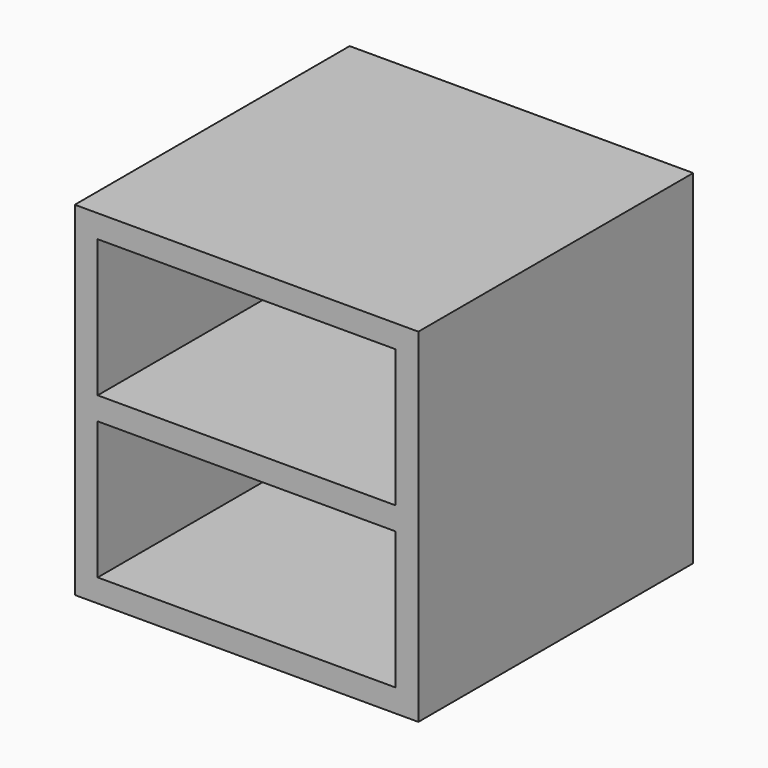
from build123d import *

# Parameters (mm, degrees)
F0_W     = 180
F0_H     = 180
F1_DEPTH = 90
F2_T     = -12
F3_W     = 156
F3_H     = 12
F4_DEPTH = 168


with BuildPart() as f1:
    # F0 (on Top) → F1 (new body, symmetric)
    with BuildSketch(Plane.XY):
        Rectangle(F0_W, F0_H)
    extrude(amount=F1_DEPTH, both=True)

    # F2
    f2_openings = [f1.faces().sort_by_distance(p)[0] for p in [
        (0, -90, 0),
    ]]
    offset(amount=F2_T, openings=f2_openings)

    # F3 (on face) → F4 (join)
    with BuildSketch(Plane.XZ.offset(-78)):
        Rectangle(F3_W, F3_H)
    extrude(amount=F4_DEPTH)


solid = f1.part
